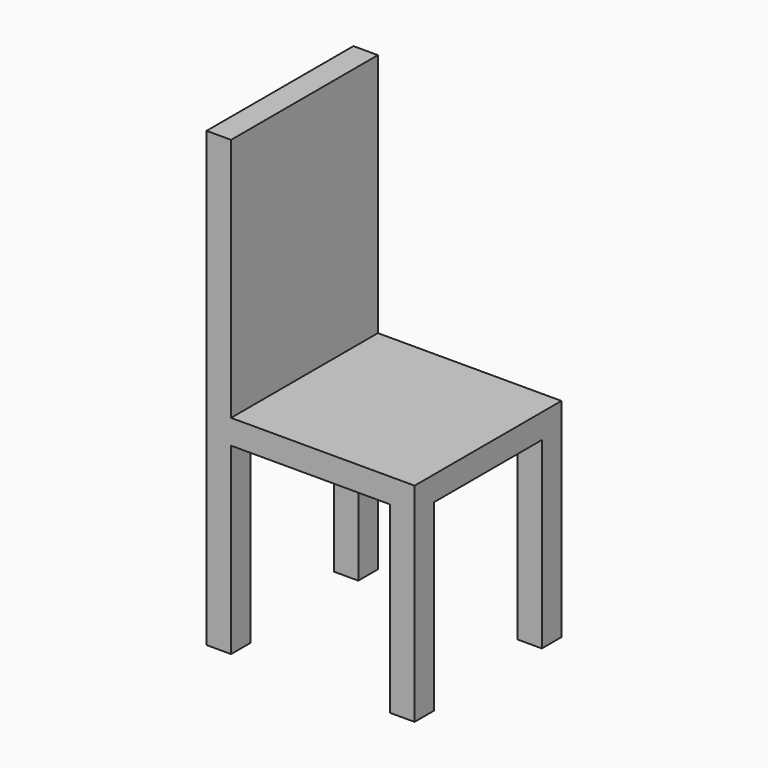
from build123d import *

# Parameters (mm, degrees)
BOX018_W         = 2
BOX018_H         = 2
BOX018_DEPTH     = 15
ARRAY003_X_COUNT = 2
ARRAY003_X_PITCH = 15
ARRAY003_Y_COUNT = 2
ARRAY003_Y_PITCH = 13
BOX017_W         = 25
BOX017_H         = 20
BOX017_DEPTH     = 25
BOX016_W         = 17
BOX016_H         = 15
BOX016_DEPTH     = 22


with BuildPart() as obj1:
    # Box018 → Box018 (new body)
    with BuildSketch(Plane.XY):
        with Locations((1, 1)):
            Rectangle(BOX018_W, BOX018_H)
    extrude(amount=BOX018_DEPTH)

    # Array003 X: obj1_2


with BuildPart() as obj1_1:
    add(obj1.part)
    with Locations(*[(i * ARRAY003_X_PITCH, 0, 0) for i in range(1, ARRAY003_X_COUNT)]):
        add(obj1.part)

    # Array003 Y: obj1_2


with BuildPart() as obj1_2:
    add(obj1_1.part)
    with Locations(*[(0, i * ARRAY003_Y_PITCH, 0) for i in range(1, ARRAY003_Y_COUNT)]):
        add(obj1_1.part)


with BuildPart() as obj2:
    # Box017 → Box017 (new body)
    with BuildSketch(Plane(origin=(2, -2, 2), x_dir=(1, 0, 0), z_dir=(0, 0, 1))):
        with Locations((12.5, 10)):
            Rectangle(BOX017_W, BOX017_H)
    extrude(amount=BOX017_DEPTH)


with BuildPart() as obj3:
    # Box016 → Box016 (new body)
    with BuildSketch(Plane.XY):
        with Locations((8.5, 7.5)):
            Rectangle(BOX016_W, BOX016_H)
    extrude(amount=BOX016_DEPTH)

    # Cut003: cut obj2
    add(obj2.part, mode=Mode.SUBTRACT)


with BuildPart() as obj3_1:
    # Cut003 placement: moved
    add(obj3.part.moved(Location((0, 0, 15))))

    # Fusion005: union obj1
    add(obj1_2.part)


solid = obj3_1.part
